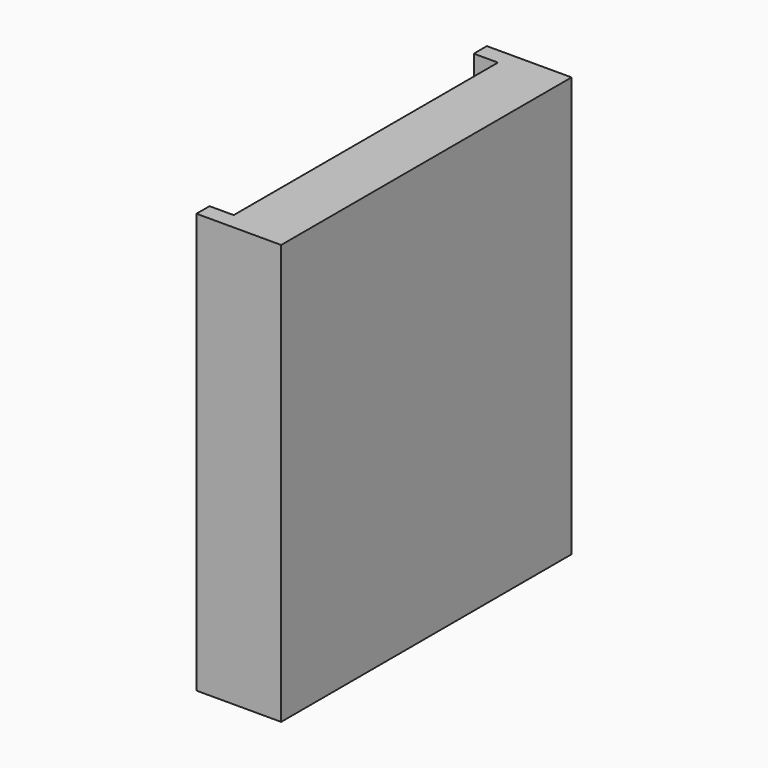
from build123d import *

# Parameters (mm, degrees)
BOX_W        = 5
BOX_H        = 30
BOX_DEPTH    = 34.7
BOX002_W     = 5
BOX002_H     = 1.35
BOX002_DEPTH = 34.7
BOX001_W     = 5
BOX001_H     = 1.35
BOX001_DEPTH = 34.7


with BuildPart() as cube:
    # Box → Box (new body)
    with BuildSketch(Plane(origin=(0, -15, 0), x_dir=(1, 0, 0), z_dir=(0, 0, 1))):
        with Locations((2.5, 15)):
            Rectangle(BOX_W, BOX_H)
    extrude(amount=BOX_DEPTH)


with BuildPart() as cube002:
    # Box002 → Box002 (new body)
    with BuildSketch(Plane(origin=(-2, 13.65, 0), x_dir=(1, 0, 0), z_dir=(0, 0, 1))):
        with Locations((2.5, 0.675)):
            Rectangle(BOX002_W, BOX002_H)
    extrude(amount=BOX002_DEPTH)


with BuildPart() as base_plate:
    # Box001 → Box001 (new body)
    with BuildSketch(Plane(origin=(-2, -15, 0), x_dir=(1, 0, 0), z_dir=(0, 0, 1))):
        with Locations((2.5, 0.675)):
            Rectangle(BOX001_W, BOX001_H)
    extrude(amount=BOX001_DEPTH)

    # Fusion: union Cube, Cube002
    add(cube.part)
    add(cube002.part)


solid = base_plate.part
